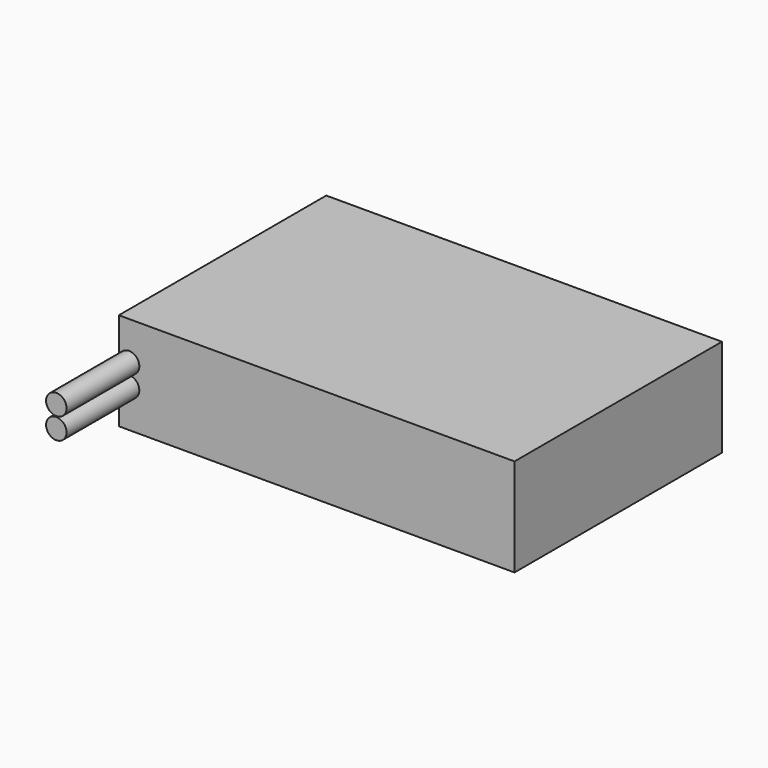
from build123d import *

# Parameters (mm, degrees)
F0_W     = 87
F0_H     = 57
F1_DEPTH = 21.5
F3_DEPTH = 20
F4_W     = 6.5
F4_H     = 11
F5_DEPTH = 4


with BuildPart() as f1:
    # F0 (on Top) → F1 (new body)
    with BuildSketch(Plane.XY):
        Rectangle(F0_W, F0_H)
    extrude(amount=F1_DEPTH)


with BuildPart() as f3:
    # F2 (on face) → F3 (new body)
    with BuildSketch(Plane.XZ.offset(28.5)):
        with BuildLine():
            ThreePointArc((-43.5, 13.088999), (-41.25, 10.838999), (-39, 13.088999))
            ThreePointArc((-39, 13.088999), (-41.25, 15.338999), (-43.5, 13.088999))
        make_face()
        with BuildLine():
            ThreePointArc((-39, 8.411001), (-41.25, 10.661001), (-43.5, 8.411001))
            ThreePointArc((-43.5, 8.411001), (-41.25, 6.161001), (-39, 8.411001))
        make_face()
    extrude(amount=F3_DEPTH)


with BuildPart() as f5:
    # F4 (on face) → F5 (new body)
    with BuildSketch(Plane(origin=(0, 28.5, 0), x_dir=(-1, 0, 0), z_dir=(0, 1, 0))):
        with Locations((38.25, 10.75)):
            Rectangle(F4_W, F4_H)
    extrude(amount=F5_DEPTH)


solid = Compound([f1.part, f3.part, f5.part])
